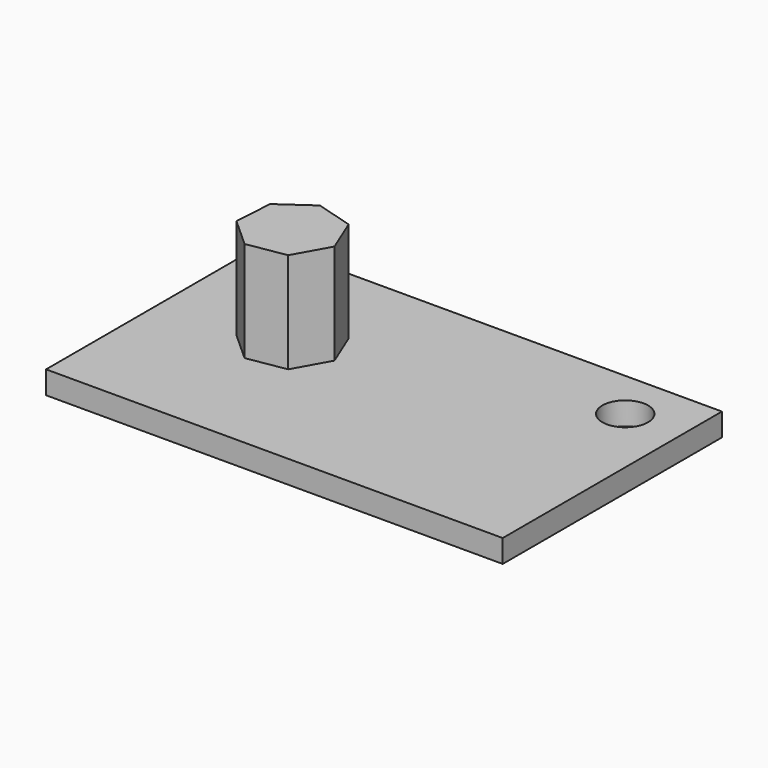
from build123d import *

# Parameters (mm, degrees)
F0_W     = 100
F0_H     = 60
F1_DEPTH = 5
F2_R     = 5
F3_DEPTH = 25
F5_DEPTH = 22


with BuildPart() as f1:
    # F0 (on Top) → F1 (new body)
    with BuildSketch(Plane.XY):
        Rectangle(F0_W, F0_H)
    extrude(amount=F1_DEPTH)

    # F2 (on face) → F3 (cut)
    with BuildSketch(Plane.XY.offset(5)):
        with Locations((37.62725, 19.000012)):
            Circle(F2_R)
    extrude(amount=-F3_DEPTH, mode=Mode.SUBTRACT)

    # F4 (on face) → F5 (join)
    with BuildSketch(Plane.XY.offset(5)):
        Polygon((-13.507203, 3.325971), (-16.744654, 11.239743), (-24.950408, 13.642757), (-31.945364, 8.725496), (-32.462178, 0.190757), (-26.111678, -5.534628), (-17.675921, -4.139326), align=None)
    extrude(amount=F5_DEPTH)


solid = f1.part
